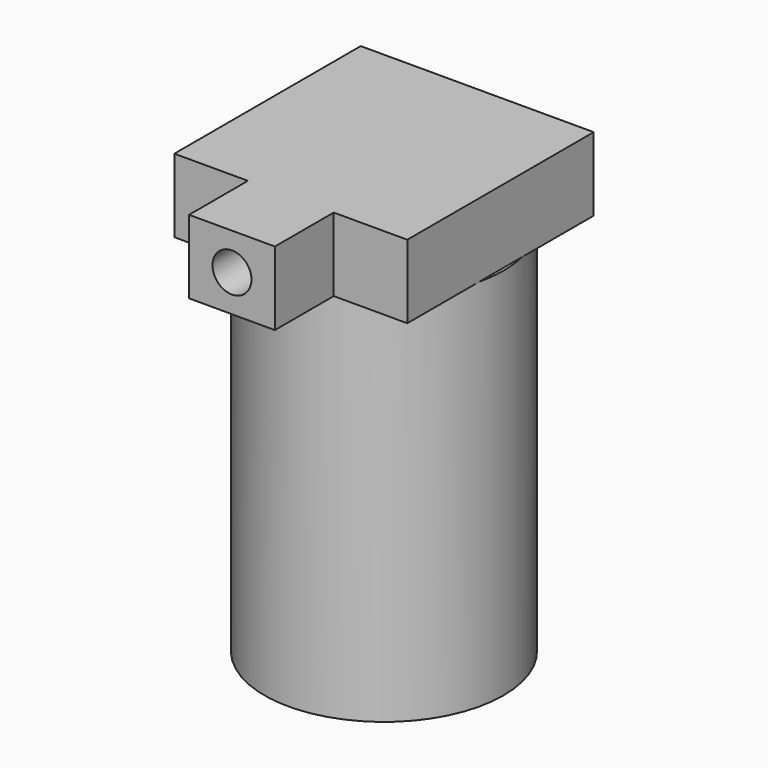
from build123d import *

# Parameters (mm, degrees)
PAD_DEPTH    = 12
SKETCH001_R  = 19.5
PAD001_DEPTH = 61
SKETCH002_R  = 3.175
POCKET_DEPTH = 8


with BuildPart() as part:
    # Sketch → Pad (new body)
    with BuildSketch(Plane.XY):
        Polygon((-19, 19), (19, 19), (19, -19), (7, -19), (7, -31), (-7, -31), (-7, -19), (-19, -19), align=None)
    extrude(amount=PAD_DEPTH)

    # Sketch001 → Pad001 (join)
    with BuildSketch(Plane.XY):
        Circle(SKETCH001_R)
    extrude(amount=-PAD001_DEPTH)

    # Sketch002 (on Face6 of Pad001) → Pocket (cut)
    with BuildSketch(Plane.XZ.offset(31)):
        with Locations((0, 6)):
            Circle(SKETCH002_R)
    extrude(amount=-POCKET_DEPTH, mode=Mode.SUBTRACT)


solid = part.part
